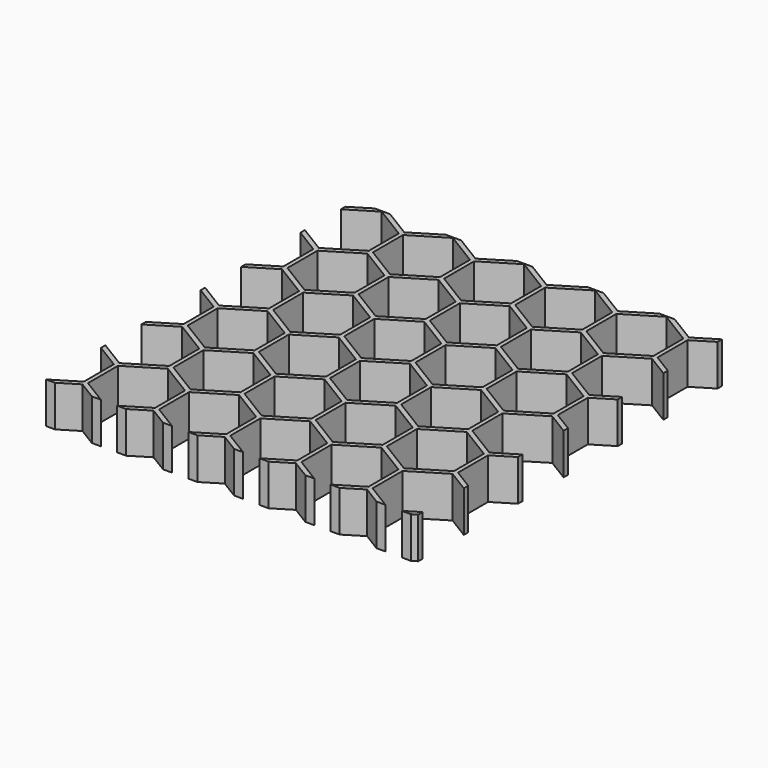
from build123d import *

# Parameters (mm, degrees)
SKETCH094_W      = 47
SKETCH094_H      = 5
EXTRUDE085_DEPTH = 45
OBJ1  = 56.791651
OBJ2  = 81.381905
EXTRUDE084_DEPTH = 5


with BuildPart() as extrude085:
    # Sketch094 → Extrude085 (new body)
    with BuildSketch(Plane.YZ.offset(-2)):
        with Locations((52.5, -42.5)):
            Rectangle(SKETCH094_W, SKETCH094_H)
    extrude(amount=EXTRUDE085_DEPTH)


with BuildPart() as common003:
    with BuildSketch(Plane(origin=(-3, 18, -45), x_dir=(1, 0, 0), z_dir=(0, 0, 1))):
        with Locations((23.815698, 35.440953)):
            Rectangle(OBJ1, OBJ2)
        Polygon((0, 4.783494), (-4.080127, 2.283494), (-4.080127, -2.283494), (0, -4.783494), (4.080127, -2.283494), (4.080127, 2.283494), align=None, mode=Mode.SUBTRACT)
        Polygon((8.660254, 4.783494), (4.580127, 2.283494), (4.580127, -2.283494), (8.660254, -4.783494), (12.740381, -2.283494), (12.740381, 2.283494), align=None, mode=Mode.SUBTRACT)
        Polygon((17.320508, 4.783494), (13.240381, 2.283494), (13.240381, -2.283494), (17.320508, -4.783494), (21.400635, -2.283494), (21.400635, 2.283494), align=None, mode=Mode.SUBTRACT)
        Polygon((25.980762, 4.783494), (21.900635, 2.283494), (21.900635, -2.283494), (25.980762, -4.783494), (30.060889, -2.283494), (30.060889, 2.283494), align=None, mode=Mode.SUBTRACT)
        Polygon((34.641016, 4.783494), (30.560889, 2.283494), (30.560889, -2.283494), (34.641016, -4.783494), (38.721143, -2.283494), (38.721143, 2.283494), align=None, mode=Mode.SUBTRACT)
        Polygon((43.30127, 4.783494), (39.221143, 2.283494), (39.221143, -2.283494), (43.30127, -4.783494), (47.381397, -2.283494), (47.381397, 2.283494), align=None, mode=Mode.SUBTRACT)
        Polygon((4.330127, 12.371684), (0.25, 9.871684), (0.25, 5.304697), (4.330127, 2.804697), (8.410254, 5.304697), (8.410254, 9.871684), align=None, mode=Mode.SUBTRACT)
        Polygon((12.990381, 12.371684), (8.910254, 9.871684), (8.910254, 5.304697), (12.990381, 2.804697), (17.070508, 5.304697), (17.070508, 9.871684), align=None, mode=Mode.SUBTRACT)
        Polygon((21.650635, 12.371684), (17.570508, 9.871684), (17.570508, 5.304697), (21.650635, 2.804697), (25.730762, 5.304697), (25.730762, 9.871684), align=None, mode=Mode.SUBTRACT)
        Polygon((30.310889, 12.371684), (26.230762, 9.871684), (26.230762, 5.304697), (30.310889, 2.804697), (34.391016, 5.304697), (34.391016, 9.871684), align=None, mode=Mode.SUBTRACT)
        Polygon((38.971143, 12.371684), (34.891016, 9.871684), (34.891016, 5.304697), (38.971143, 2.804697), (43.05127, 5.304697), (43.05127, 9.871684), align=None, mode=Mode.SUBTRACT)
        Polygon((47.631397, 12.371684), (43.55127, 9.871684), (43.55127, 5.304697), (47.631397, 2.804697), (51.711524, 5.304697), (51.711524, 9.871684), align=None, mode=Mode.SUBTRACT)
        Polygon((0, 19.959875), (-4.080127, 17.459875), (-4.080127, 12.892887), (0, 10.392887), (4.080127, 12.892887), (4.080127, 17.459875), align=None, mode=Mode.SUBTRACT)
        Polygon((8.660254, 19.959875), (4.580127, 17.459875), (4.580127, 12.892887), (8.660254, 10.392887), (12.740381, 12.892887), (12.740381, 17.459875), align=None, mode=Mode.SUBTRACT)
        Polygon((17.320508, 19.959875), (13.240381, 17.459875), (13.240381, 12.892887), (17.320508, 10.392887), (21.400635, 12.892887), (21.400635, 17.459875), align=None, mode=Mode.SUBTRACT)
        Polygon((25.980762, 19.959875), (21.900635, 17.459875), (21.900635, 12.892887), (25.980762, 10.392887), (30.060889, 12.892887), (30.060889, 17.459875), align=None, mode=Mode.SUBTRACT)
        Polygon((34.641016, 19.959875), (30.560889, 17.459875), (30.560889, 12.892887), (34.641016, 10.392887), (38.721143, 12.892887), (38.721143, 17.459875), align=None, mode=Mode.SUBTRACT)
        Polygon((43.30127, 19.959875), (39.221143, 17.459875), (39.221143, 12.892887), (43.30127, 10.392887), (47.381397, 12.892887), (47.381397, 17.459875), align=None, mode=Mode.SUBTRACT)
        Polygon((4.330127, 27.548065), (0.25, 25.048065), (0.25, 20.481078), (4.330127, 17.981078), (8.410254, 20.481078), (8.410254, 25.048065), align=None, mode=Mode.SUBTRACT)
        Polygon((12.990381, 27.548065), (8.910254, 25.048065), (8.910254, 20.481078), (12.990381, 17.981078), (17.070508, 20.481078), (17.070508, 25.048065), align=None, mode=Mode.SUBTRACT)
        Polygon((21.650635, 27.548065), (17.570508, 25.048065), (17.570508, 20.481078), (21.650635, 17.981078), (25.730762, 20.481078), (25.730762, 25.048065), align=None, mode=Mode.SUBTRACT)
        Polygon((30.310889, 27.548065), (26.230762, 25.048065), (26.230762, 20.481078), (30.310889, 17.981078), (34.391016, 20.481078), (34.391016, 25.048065), align=None, mode=Mode.SUBTRACT)
        Polygon((38.971143, 27.548065), (34.891016, 25.048065), (34.891016, 20.481078), (38.971143, 17.981078), (43.05127, 20.481078), (43.05127, 25.048065), align=None, mode=Mode.SUBTRACT)
        Polygon((47.631397, 27.548065), (43.55127, 25.048065), (43.55127, 20.481078), (47.631397, 17.981078), (51.711524, 20.481078), (51.711524, 25.048065), align=None, mode=Mode.SUBTRACT)
        Polygon((0, 35.136255), (-4.080127, 32.636255), (-4.080127, 28.069268), (0, 25.569268), (4.080127, 28.069268), (4.080127, 32.636255), align=None, mode=Mode.SUBTRACT)
        Polygon((8.660254, 35.136255), (4.580127, 32.636255), (4.580127, 28.069268), (8.660254, 25.569268), (12.740381, 28.069268), (12.740381, 32.636255), align=None, mode=Mode.SUBTRACT)
        Polygon((17.320508, 35.136255), (13.240381, 32.636255), (13.240381, 28.069268), (17.320508, 25.569268), (21.400635, 28.069268), (21.400635, 32.636255), align=None, mode=Mode.SUBTRACT)
        Polygon((25.980762, 35.136255), (21.900635, 32.636255), (21.900635, 28.069268), (25.980762, 25.569268), (30.060889, 28.069268), (30.060889, 32.636255), align=None, mode=Mode.SUBTRACT)
        Polygon((34.641016, 35.136255), (30.560889, 32.636255), (30.560889, 28.069268), (34.641016, 25.569268), (38.721143, 28.069268), (38.721143, 32.636255), align=None, mode=Mode.SUBTRACT)
        Polygon((43.30127, 35.136255), (39.221143, 32.636255), (39.221143, 28.069268), (43.30127, 25.569268), (47.381397, 28.069268), (47.381397, 32.636255), align=None, mode=Mode.SUBTRACT)
        Polygon((4.330127, 42.724446), (0.25, 40.224446), (0.25, 35.657459), (4.330127, 33.157459), (8.410254, 35.657459), (8.410254, 40.224446), align=None, mode=Mode.SUBTRACT)
        Polygon((12.990381, 42.724446), (8.910254, 40.224446), (8.910254, 35.657459), (12.990381, 33.157459), (17.070508, 35.657459), (17.070508, 40.224446), align=None, mode=Mode.SUBTRACT)
        Polygon((21.650635, 42.724446), (17.570508, 40.224446), (17.570508, 35.657459), (21.650635, 33.157459), (25.730762, 35.657459), (25.730762, 40.224446), align=None, mode=Mode.SUBTRACT)
        Polygon((30.310889, 42.724446), (26.230762, 40.224446), (26.230762, 35.657459), (30.310889, 33.157459), (34.391016, 35.657459), (34.391016, 40.224446), align=None, mode=Mode.SUBTRACT)
        Polygon((38.971143, 42.724446), (34.891016, 40.224446), (34.891016, 35.657459), (38.971143, 33.157459), (43.05127, 35.657459), (43.05127, 40.224446), align=None, mode=Mode.SUBTRACT)
        Polygon((47.631397, 42.724446), (43.55127, 40.224446), (43.55127, 35.657459), (47.631397, 33.157459), (51.711524, 35.657459), (51.711524, 40.224446), align=None, mode=Mode.SUBTRACT)
        Polygon((0, 50.312636), (-4.080127, 47.812636), (-4.080127, 43.245649), (0, 40.745649), (4.080127, 43.245649), (4.080127, 47.812636), align=None, mode=Mode.SUBTRACT)
        Polygon((8.660254, 50.312636), (4.580127, 47.812636), (4.580127, 43.245649), (8.660254, 40.745649), (12.740381, 43.245649), (12.740381, 47.812636), align=None, mode=Mode.SUBTRACT)
        Polygon((17.320508, 50.312636), (13.240381, 47.812636), (13.240381, 43.245649), (17.320508, 40.745649), (21.400635, 43.245649), (21.400635, 47.812636), align=None, mode=Mode.SUBTRACT)
        Polygon((25.980762, 50.312636), (21.900635, 47.812636), (21.900635, 43.245649), (25.980762, 40.745649), (30.060889, 43.245649), (30.060889, 47.812636), align=None, mode=Mode.SUBTRACT)
        Polygon((34.641016, 50.312636), (30.560889, 47.812636), (30.560889, 43.245649), (34.641016, 40.745649), (38.721143, 43.245649), (38.721143, 47.812636), align=None, mode=Mode.SUBTRACT)
        Polygon((43.30127, 50.312636), (39.221143, 47.812636), (39.221143, 43.245649), (43.30127, 40.745649), (47.381397, 43.245649), (47.381397, 47.812636), align=None, mode=Mode.SUBTRACT)
        Polygon((4.330127, 57.900827), (0.25, 55.400827), (0.25, 50.83384), (4.330127, 48.33384), (8.410254, 50.83384), (8.410254, 55.400827), align=None, mode=Mode.SUBTRACT)
        Polygon((12.990381, 57.900827), (8.910254, 55.400827), (8.910254, 50.83384), (12.990381, 48.33384), (17.070508, 50.83384), (17.070508, 55.400827), align=None, mode=Mode.SUBTRACT)
        Polygon((21.650635, 57.900827), (17.570508, 55.400827), (17.570508, 50.83384), (21.650635, 48.33384), (25.730762, 50.83384), (25.730762, 55.400827), align=None, mode=Mode.SUBTRACT)
        Polygon((30.310889, 57.900827), (26.230762, 55.400827), (26.230762, 50.83384), (30.310889, 48.33384), (34.391016, 50.83384), (34.391016, 55.400827), align=None, mode=Mode.SUBTRACT)
        Polygon((38.971143, 57.900827), (34.891016, 55.400827), (34.891016, 50.83384), (38.971143, 48.33384), (43.05127, 50.83384), (43.05127, 55.400827), align=None, mode=Mode.SUBTRACT)
        Polygon((47.631397, 57.900827), (43.55127, 55.400827), (43.55127, 50.83384), (47.631397, 48.33384), (51.711524, 50.83384), (51.711524, 55.400827), align=None, mode=Mode.SUBTRACT)
        Polygon((0, 65.489017), (-4.080127, 62.989017), (-4.080127, 58.42203), (0, 55.92203), (4.080127, 58.42203), (4.080127, 62.989017), align=None, mode=Mode.SUBTRACT)
        Polygon((8.660254, 65.489017), (4.580127, 62.989017), (4.580127, 58.42203), (8.660254, 55.92203), (12.740381, 58.42203), (12.740381, 62.989017), align=None, mode=Mode.SUBTRACT)
        Polygon((17.320508, 65.489017), (13.240381, 62.989017), (13.240381, 58.42203), (17.320508, 55.92203), (21.400635, 58.42203), (21.400635, 62.989017), align=None, mode=Mode.SUBTRACT)
        Polygon((25.980762, 65.489017), (21.900635, 62.989017), (21.900635, 58.42203), (25.980762, 55.92203), (30.060889, 58.42203), (30.060889, 62.989017), align=None, mode=Mode.SUBTRACT)
        Polygon((34.641016, 65.489017), (30.560889, 62.989017), (30.560889, 58.42203), (34.641016, 55.92203), (38.721143, 58.42203), (38.721143, 62.989017), align=None, mode=Mode.SUBTRACT)
        Polygon((43.30127, 65.489017), (39.221143, 62.989017), (39.221143, 58.42203), (43.30127, 55.92203), (47.381397, 58.42203), (47.381397, 62.989017), align=None, mode=Mode.SUBTRACT)
        Polygon((4.330127, 73.077208), (0.25, 70.577208), (0.25, 66.01022), (4.330127, 63.51022), (8.410254, 66.01022), (8.410254, 70.577208), align=None, mode=Mode.SUBTRACT)
        Polygon((12.990381, 73.077208), (8.910254, 70.577208), (8.910254, 66.01022), (12.990381, 63.51022), (17.070508, 66.01022), (17.070508, 70.577208), align=None, mode=Mode.SUBTRACT)
        Polygon((21.650635, 73.077208), (17.570508, 70.577208), (17.570508, 66.01022), (21.650635, 63.51022), (25.730762, 66.01022), (25.730762, 70.577208), align=None, mode=Mode.SUBTRACT)
        Polygon((30.310889, 73.077208), (26.230762, 70.577208), (26.230762, 66.01022), (30.310889, 63.51022), (34.391016, 66.01022), (34.391016, 70.577208), align=None, mode=Mode.SUBTRACT)
        Polygon((38.971143, 73.077208), (34.891016, 70.577208), (34.891016, 66.01022), (38.971143, 63.51022), (43.05127, 66.01022), (43.05127, 70.577208), align=None, mode=Mode.SUBTRACT)
        Polygon((47.631397, 73.077208), (43.55127, 70.577208), (43.55127, 66.01022), (47.631397, 63.51022), (51.711524, 66.01022), (51.711524, 70.577208), align=None, mode=Mode.SUBTRACT)
    extrude(amount=EXTRUDE084_DEPTH)

    # Common003: intersect Extrude085
    add(extrude085.part, mode=Mode.INTERSECT)


solid = common003.part
